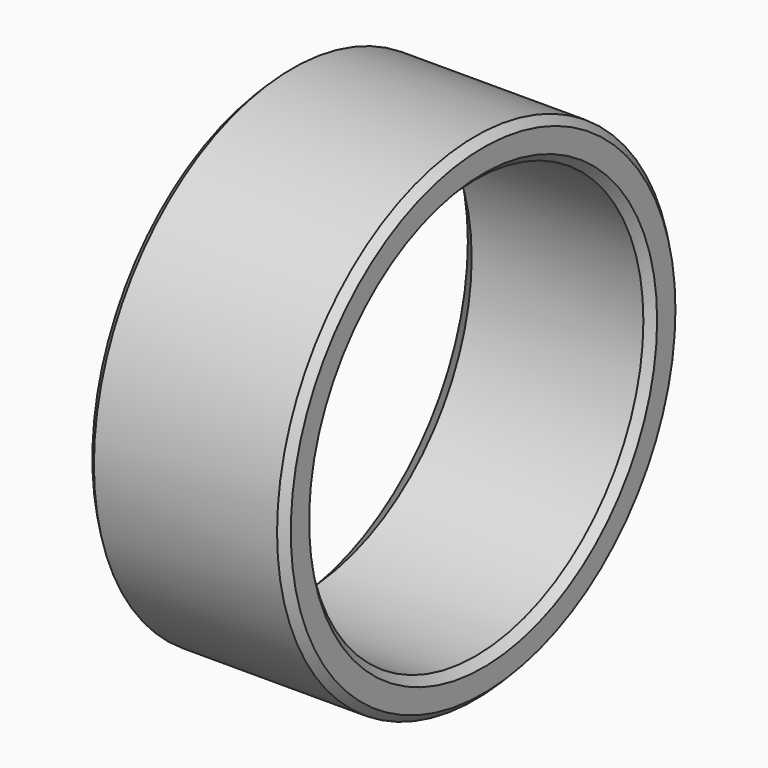
from build123d import *

# Parameters (mm, degrees)
F0_R     = 65
F0_R_2   = 55
F1_DEPTH = 26
F2_SIZE  = 5
F3_SIZE  = 2


with BuildPart() as f1:
    # F0 (on Right) → F1 (new body, symmetric)
    with BuildSketch(Plane.YZ):
        Circle(F0_R)
        Circle(F0_R_2, mode=Mode.SUBTRACT)
    extrude(amount=F1_DEPTH, both=True)

    # F2
    f2_edges = [f1.edges().sort_by_distance(p)[0] for p in [
        (-26, -55, 0),
    ]]
    chamfer(f2_edges, length=F2_SIZE)

    # F3
    f3_edges = [f1.edges().sort_by_distance(p)[0] for p in [
        (-26, -65, 0),
        (26, -65, 0),
        (26, -55, 0),
    ]]
    chamfer(f3_edges, length=F3_SIZE)


solid = f1.part
